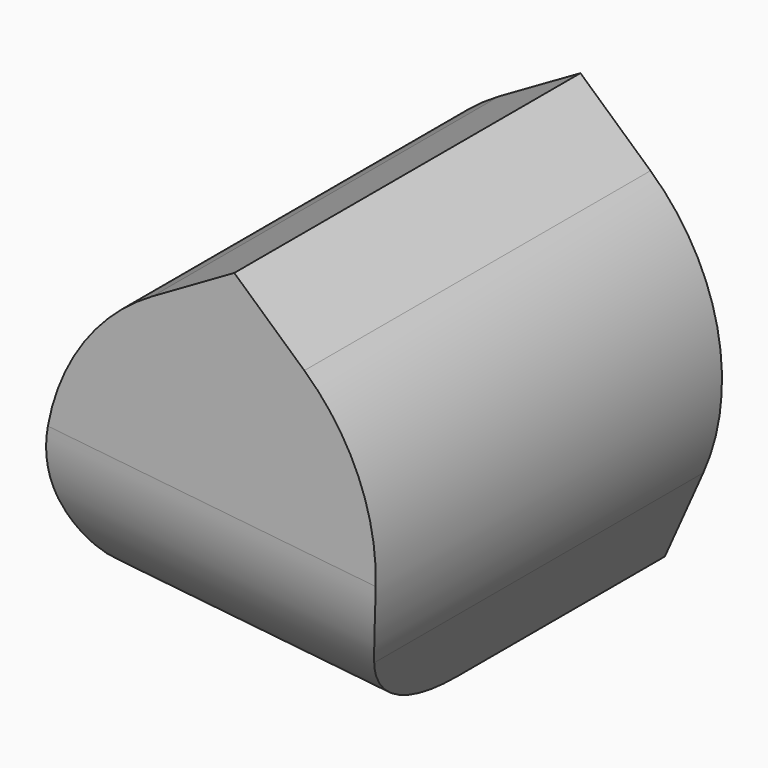
from build123d import *

# Parameters (mm, degrees)
F1_DEPTH = 10
F2_R     = 4
F3_R     = 5
F4_R     = 5


with BuildPart() as f1:
    # F0 (on Front) → F1 (new body)
    with BuildSketch(Plane.XZ):
        Polygon((4.83675, 1.025512), (0.519318, 4.916923), (-4.515794, 2.013314), (-3.310232, -3.672627), (2.469957, -4.283122), align=None)
    extrude(amount=F1_DEPTH)

    # F2
    f2_edges = [f1.edges().sort_by_distance(p)[0] for p in [
        (-0.420137, -10, -3.977874),
    ]]
    fillet(f2_edges, radius=F2_R)

    # F3
    f3_edges = [f1.edges().sort_by_distance(p)[0] for p in [
        (4.83675, -5, 1.025512),
    ]]
    fillet(f3_edges, radius=F3_R)

    # F4
    f4_edges = [f1.edges().sort_by_distance(p)[0] for p in [
        (-4.515794, -5, 2.013314),
    ]]
    fillet(f4_edges, radius=F4_R)


solid = f1.part
